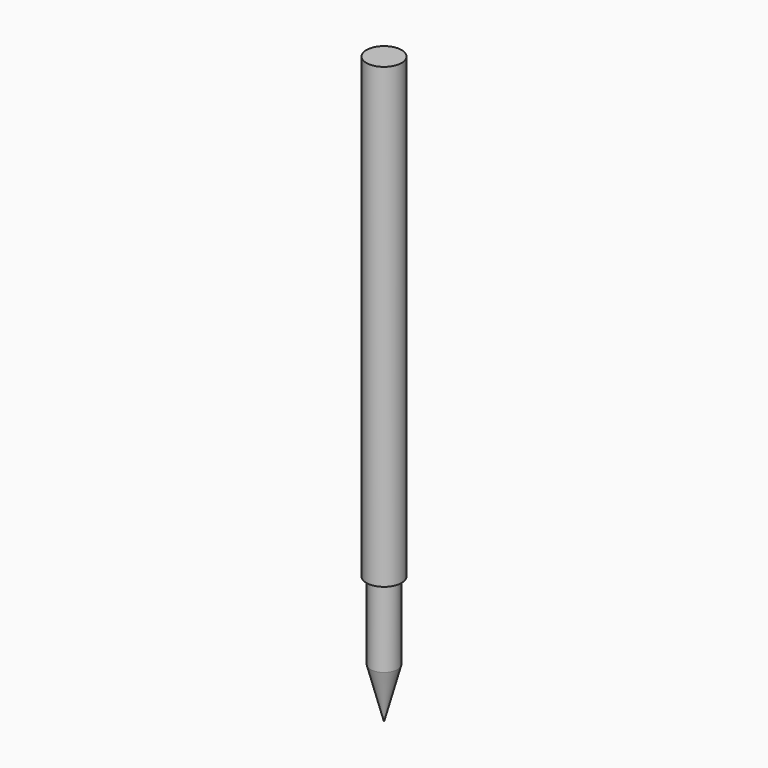
from build123d import *

# Parameters (mm, degrees)
F0_R     = 0.5
F1_DEPTH = 13
F2_R     = 0.385
F3_DEPTH = 2.2


with BuildPart() as f1:
    # F0 (on Top) → F1 (new body)
    with BuildSketch(Plane.XY):
        Circle(F0_R)
    extrude(amount=F1_DEPTH)

    # F2 (on face) → F3 (join)
    with BuildSketch(Plane(origin=(0, 0, 0), x_dir=(1, 0, 0), z_dir=(0, 0, -1))):
        Circle(F2_R)
    extrude(amount=F3_DEPTH)

    # F4 (on Front) → F5 (revolve)
    with BuildSketch(Plane.XZ):
        Polygon((-0.385, -2.2), (0, -3.63684), (0, -2.2), align=None)
    revolve(axis=Axis((0, 0, -2.91842), (0, 0, 1)))


solid = f1.part
